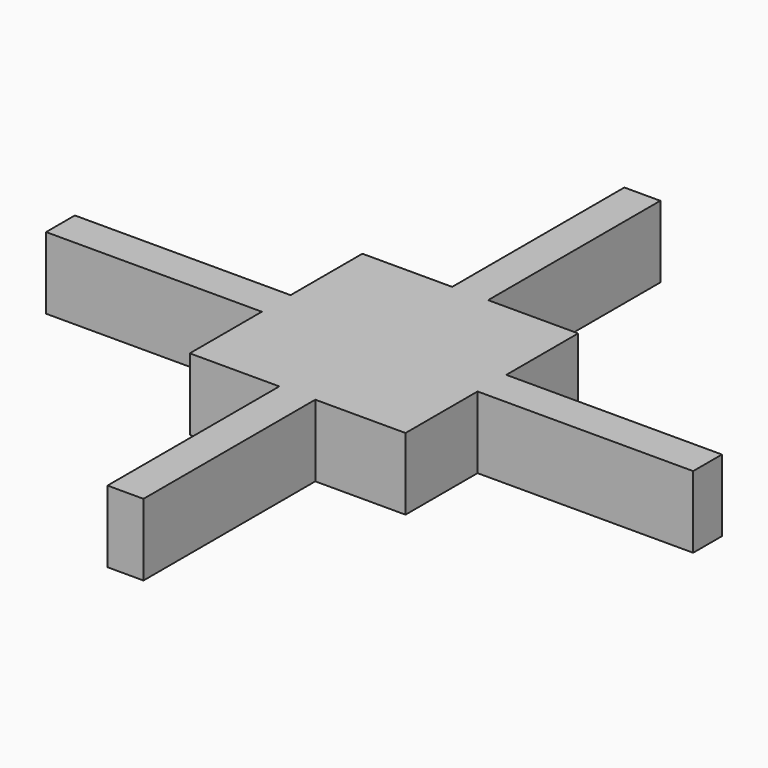
from build123d import *

# Parameters (mm, degrees)
F0_W     = 76.2
F0_H     = 76.2
F1_DEPTH = 25.4
F2_W     = 12.7
F2_H     = 76.2
F6_DEPTH = 25.4
F4_W     = 76.2
F4_H     = 12.7
F7_DEPTH = 25.4
F5_W     = 76.2
F5_H     = 12.7
F8_DEPTH = 25.4
F3_W     = 12.7
F3_H     = 76.2
F9_DEPTH = 25.4


with BuildPart() as f1:
    # F0 (on Top) → F1 (new body)
    with BuildSketch(Plane.XY):
        with Locations((0.213519, -0.247781)):
            Rectangle(F0_W, F0_H)
    extrude(amount=F1_DEPTH)

    # F2 (on Top) → F6 (join)
    with BuildSketch(Plane.XY):
        with Locations((0.173656, 75.769984)):
            Rectangle(F2_W, F2_H)
    extrude(amount=F6_DEPTH)

    # F4 (on Top) → F7 (join)
    with BuildSketch(Plane.XY):
        with Locations((-75.986146, -0.193442)):
            Rectangle(F4_W, F4_H)
    extrude(amount=F7_DEPTH)

    # F5 (on Top) → F8 (join)
    with BuildSketch(Plane.XY):
        with Locations((76.36796, -0.207913)):
            Rectangle(F5_W, F5_H)
    extrude(amount=F8_DEPTH)

    # F3 (on Top) → F9 (join)
    with BuildSketch(Plane.XY):
        with Locations((0.085362, -76.094228)):
            Rectangle(F3_W, F3_H)
    extrude(amount=F9_DEPTH)


solid = f1.part
